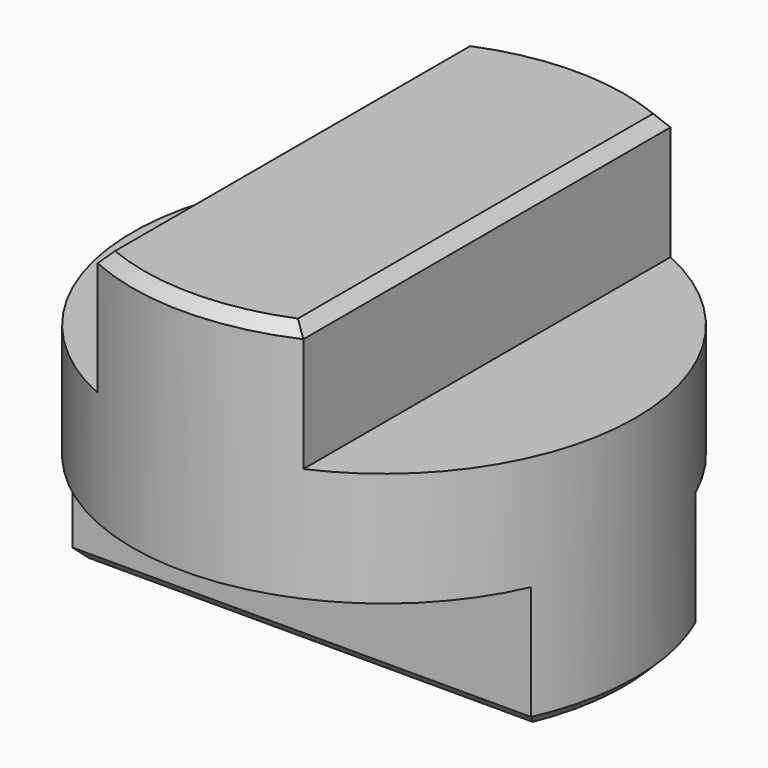
from build123d import *

# Parameters (mm, degrees)
F0_R          = 22
F1_DEPTH      = 32
F2_W          = 14.3667660505
F2_H          = 12.7565913796
F2_W_2        = 13.8227823973
F2_H_2        = 11.8480638564
F3_DEPTH      = 22.001
F3_DEPTH_BACK = 25
F4_W          = 16.210654363
F4_H          = 15.0942654014
F4_W_2        = 16.4447609186
F4_H_2        = 12.1968873441
F5_DEPTH      = 22.001
F5_DEPTH_BACK = 25
F6_SIZE       = 1


with BuildPart() as f1:
    # F0 (on Top) → F1 (new body)
    with BuildSketch(Plane.XY):
        Circle(F0_R)
    extrude(amount=F1_DEPTH)

    # F2 (on Front) → F3 (cut, two sides)
    with BuildSketch(Plane.XZ) as f3_sk:
        with Locations((-16.1833830252, 27.3782956898)):
            Rectangle(F2_W, F2_H)
        with Locations((15.9113911986, 26.9240319282)):
            Rectangle(F2_W_2, F2_H_2)
    extrude(amount=F3_DEPTH, mode=Mode.SUBTRACT)
    extrude(f3_sk.sketch, amount=-F3_DEPTH_BACK, mode=Mode.SUBTRACT)

    # F4 (on Right) → F5 (cut, two sides)
    with BuildSketch(Plane.YZ) as f5_sk:
        with Locations((-17.1053271815, 3.4528672993)):
            Rectangle(F4_W, F4_H)
        with Locations((17.2223804593, 4.9015563279)):
            Rectangle(F4_W_2, F4_H_2)
    extrude(amount=-F5_DEPTH, mode=Mode.SUBTRACT)
    extrude(f5_sk.sketch, amount=F5_DEPTH_BACK, mode=Mode.SUBTRACT)

    # F6
    f6_edges = [f1.edges().sort_by_distance(p)[0] for p in [
        (9, 0, 32),
        (0, -22, 32),
        (-9, 0, 32),
        (0, 22, 32),
        (21.513332, -4.601798, 0),
        (0, -9, 0),
        (-22, 0, 0),
        (0, 9, 0),
        (21.513332, 4.601798, 0),
    ]]
    chamfer(f6_edges, length=F6_SIZE)


solid = f1.part
